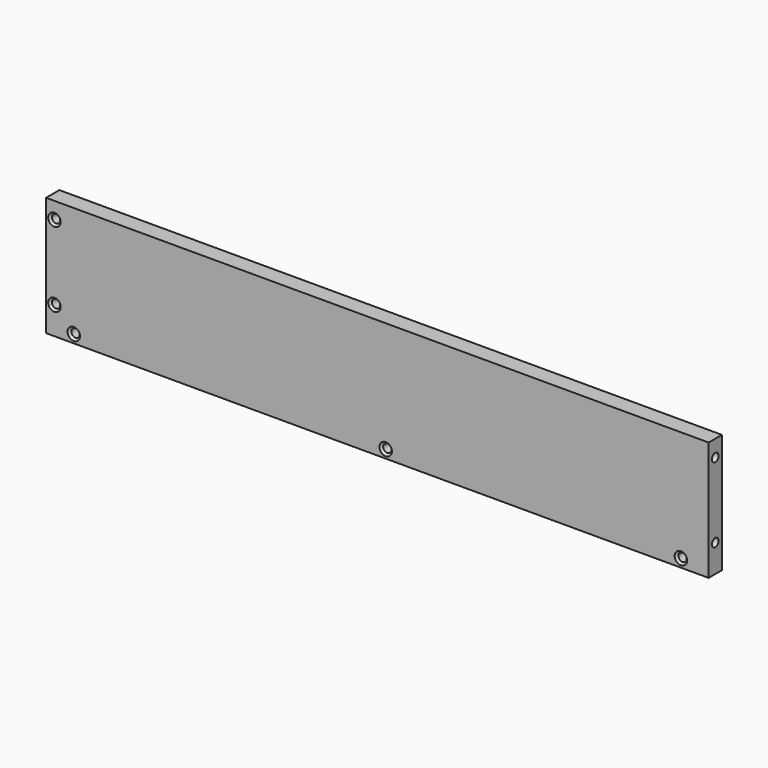
from build123d import *

# Parameters (mm, degrees)
F0_W           = 239
F0_H           = 6
F1_DEPTH       = 43
F3_D           = 3
F3_DEPTH       = 12
F3_TIP         = 0.9012909285
F5_D           = 3
F5_DEPTH       = 12
F5_CSINK_D     = 4.5
F5_CSINK_ANGLE = 90
F5_TIP         = 0.9012909285
F7_D           = 3
F7_CSINK_D     = 4.5
F7_CSINK_ANGLE = 90


with BuildPart() as f1:
    # F0 (on Top) → F1 (new body)
    with BuildSketch(Plane.XY):
        with Locations((119.5, 3)):
            Rectangle(F0_W, F0_H)
    extrude(amount=F1_DEPTH)

    # F3
    with Locations(Plane.YZ.offset(239)):
        with Locations((3, 37), (3, 10)):
            Hole(F3_D / 2, depth=F3_DEPTH)
            with Locations((0, 0, -(F3_DEPTH + F3_TIP / 2))):  # 118° drill point
                Cone(0, F3_D / 2, F3_TIP, mode=Mode.SUBTRACT)

    # F5
    with Locations(Plane.XZ):
        with Locations((3, 37), (3, 10)):
            CounterSinkHole(F5_D / 2, F5_CSINK_D / 2, depth=F5_DEPTH, counter_sink_angle=F5_CSINK_ANGLE)
            with Locations((0, 0, -(F5_DEPTH + F5_TIP / 2))):  # 118° drill point
                Cone(0, F5_D / 2, F5_TIP, mode=Mode.SUBTRACT)

    # F7 (through all)
    with Locations(Plane.XZ):
        with Locations((122.5, 3), (229, 3), (10, 3)):
            CounterSinkHole(F7_D / 2, F7_CSINK_D / 2, counter_sink_angle=F7_CSINK_ANGLE)


solid = f1.part
